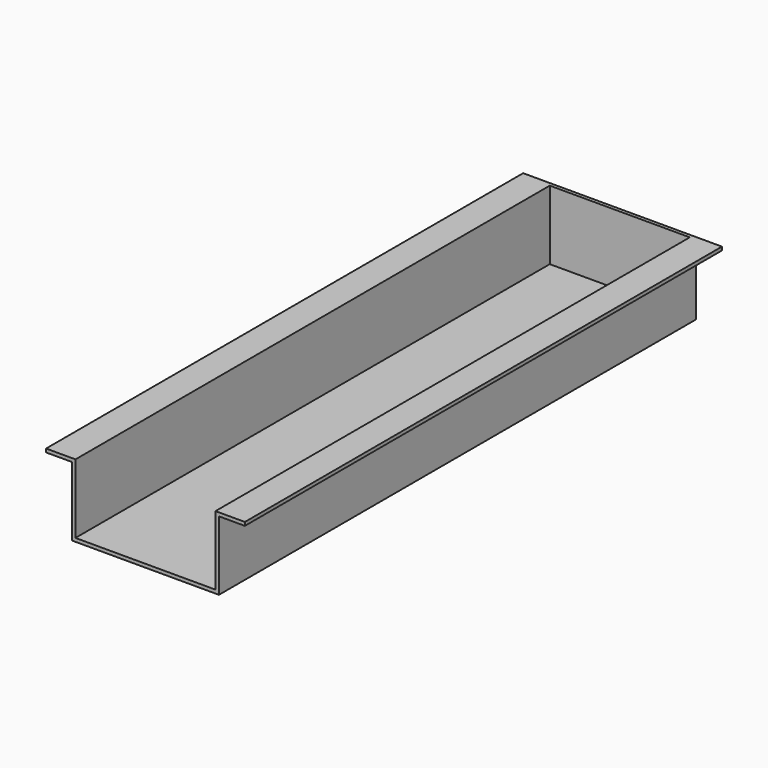
from build123d import *

# Parameters (mm, degrees)
F0_W          = 85
F0_H          = 345
F1_DEPTH      = 42
F2_T          = -2
F3_W          = 81
F3_H          = 40
F4_DEPTH      = 172.5
F4_DEPTH_BACK = 172.5
F6_START      = 40
F5_W          = 15
F5_H          = 345
F6_DEPTH      = 2
F8_START      = -170.5
F7_W          = 81
F7_H          = 40
F8_DEPTH      = 2


with BuildPart() as f1:
    # F0 (on Top) → F1 (new body)
    with BuildSketch(Plane.XY):
        Rectangle(F0_W, F0_H)
    extrude(amount=F1_DEPTH)

    # F2
    f2_openings = [f1.faces().sort_by_distance(p)[0] for p in [
        (0, 0, 42),
    ]]
    offset(amount=F2_T, openings=f2_openings)

    # F3 (on Front) → F4 (cut, two sides)
    with BuildSketch(Plane.XZ) as f4_sk:
        with Locations((0, 22)):
            Rectangle(F3_W, F3_H)
    extrude(amount=F4_DEPTH, mode=Mode.SUBTRACT)
    extrude(f4_sk.sketch, amount=-F4_DEPTH_BACK, mode=Mode.SUBTRACT)

    # F5 (on Top) → F6 (join)
    with BuildSketch(Plane.XY.offset(F6_START)):
        with Locations((-50, 0)):
            Rectangle(F5_W, F5_H)
        with Locations((50, 0)):
            Rectangle(F5_W, F5_H)
    extrude(amount=F6_DEPTH)

    # F7 (on Front) → F8 (join)
    with BuildSketch(Plane.XZ.offset(F8_START)):
        with Locations((0, 22)):
            Rectangle(F7_W, F7_H)
    extrude(amount=-F8_DEPTH)


solid = f1.part
